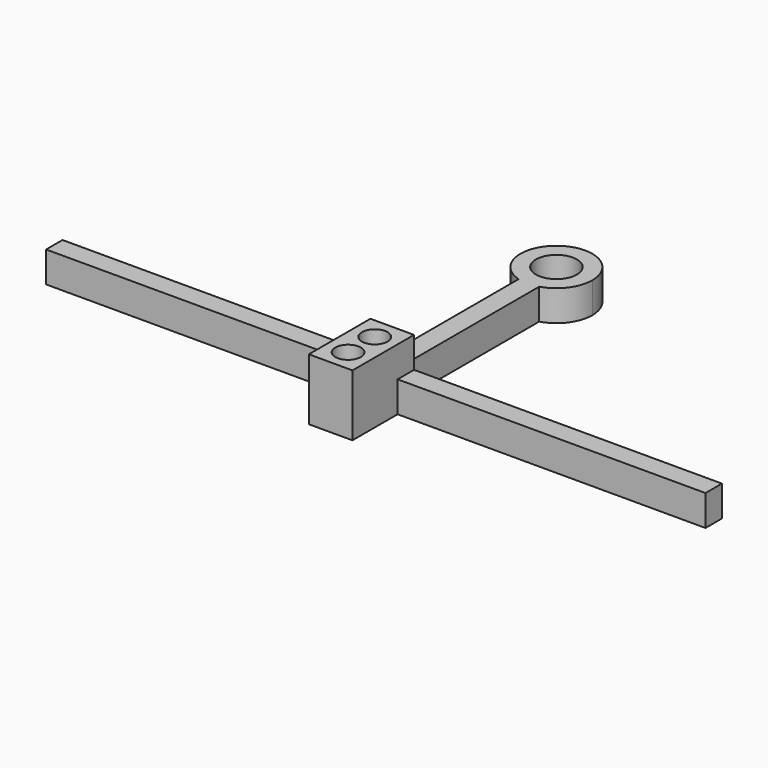
from build123d import *

# Parameters (mm, degrees)
F0_R     = 1.25
F0_W     = 30
F0_H     = 2
F1_DEPTH = 3
F2_DEPTH = 3
F3_DEPTH = 2


with BuildPart() as f1:
    # F0 (on Top) → F1 (new body)
    with BuildSketch(Plane.XY):
        Polygon((-5.94798, -6.372835), (-7.07298, -6.372835), (-7.07298, -8.372835), (-7.07298, -13.872835), (-2.82298, -13.872835), (-2.82298, -8.372835), (-2.82298, -6.372835), (-3.94798, -6.372835), align=None)
        with Locations((-4.94798, -11.747835)):
            Circle(F0_R, mode=Mode.SUBTRACT)
        with Locations((-4.94798, -8.497835)):
            Circle(F0_R, mode=Mode.SUBTRACT)
        with Locations((-22.07298, -7.372835)):
            Rectangle(F0_W, F0_H)
        with BuildLine():
            Line((-5.94798, 10.273063), (-5.94798, -6.372835))
            Line((-5.94798, -6.372835), (-3.94798, -6.372835))
            Line((-3.94798, -6.372835), (-3.94798, 10.273063))
            ThreePointArc((-3.94798, 10.273063), (-4.94798, 10.127165), (-5.94798, 10.273063))
        make_face()
        with BuildLine():
            ThreePointArc((-1.44798, 13.627165), (-7.03963, 16.433408), (-5.94798, 10.273063))
            Line((-5.94798, 10.273063), (-5.94798, 11.895114))
            ThreePointArc((-5.94798, 11.895114), (-5.94798, 15.359216), (-2.94798, 13.627165))
            ThreePointArc((-2.94798, 13.627165), (-3.215929, 12.627165), (-3.94798, 11.895114))
            Line((-3.94798, 11.895114), (-3.94798, 10.273063))
            ThreePointArc((-3.94798, 10.273063), (-2.141737, 11.535515), (-1.44798, 13.627165))
        make_face()
        with Locations((12.17702, -7.372835)):
            Rectangle(F0_W, F0_H)
        with BuildLine():
            Line((-5.94798, 11.895114), (-5.94798, 10.273063))
            ThreePointArc((-5.94798, 10.273063), (-4.94798, 10.127165), (-3.94798, 10.273063))
            Line((-3.94798, 10.273063), (-3.94798, 11.895114))
            ThreePointArc((-3.94798, 11.895114), (-4.94798, 11.627165), (-5.94798, 11.895114))
        make_face()
        with Locations((-4.94798, -8.497835)):
            Circle(F0_R)
        with Locations((-4.94798, -11.747835)):
            Circle(F0_R)
    extrude(amount=-F1_DEPTH)

    # F0 (on Top) → F2 (join)
    with BuildSketch(Plane.XY):
        Polygon((-5.94798, -6.372835), (-7.07298, -6.372835), (-7.07298, -8.372835), (-7.07298, -13.872835), (-2.82298, -13.872835), (-2.82298, -8.372835), (-2.82298, -6.372835), (-3.94798, -6.372835), align=None)
        with Locations((-4.94798, -11.747835)):
            Circle(F0_R, mode=Mode.SUBTRACT)
        with Locations((-4.94798, -8.497835)):
            Circle(F0_R, mode=Mode.SUBTRACT)
    extrude(amount=F2_DEPTH)

    # F0 (on Top) → F3 (cut)
    with BuildSketch(Plane.XY):
        with Locations((-4.94798, -8.497835)):
            Circle(F0_R)
        with Locations((-4.94798, -11.747835)):
            Circle(F0_R)
    extrude(amount=-F3_DEPTH, mode=Mode.SUBTRACT)


solid = f1.part
